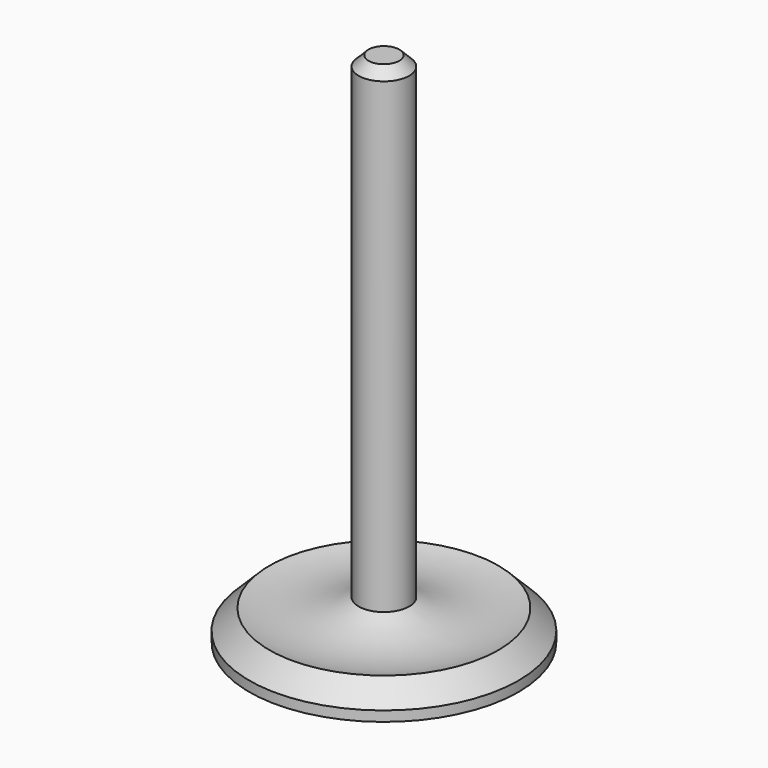
from build123d import *

# Parameters (mm, degrees)
F2_SIZE2 = 1.25
F2_SIZE  = 1.25


with BuildPart() as f1:
    # F0 (on Front) → F1 (revolve)
    with BuildSketch(Plane.XZ):
        with BuildLine():
            Line((0, 65), (0, 0))
            Line((0, 0), (16.9335, 0))
            Line((16.9335, 0), (16.9335, 1.27))
            Line((16.9335, 1.27), (14.3935, 3.81))
            ThreePointArc((14.3935, 3.81), (8.672718, 3.330467), (3.18, 5))
            Line((3.18, 5), (3.18, 65))
            Line((3.18, 65), (0, 65))
        make_face()
    revolve(axis=Axis((0, 0, 32.5), (0, 0, 1)))

    # F2
    f2_edges = [f1.edges().sort_by_distance(p)[0] for p in [
        (-3.18, 0, 65),
    ]]
    chamfer(f2_edges, length=F2_SIZE, length2=F2_SIZE2)


solid = f1.part
